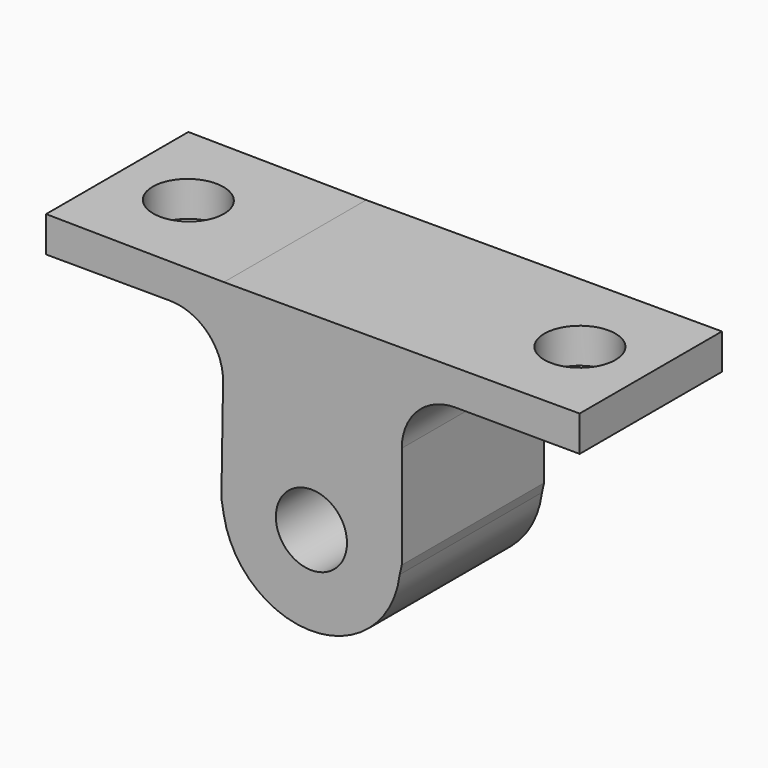
from build123d import *

# Parameters (mm, degrees)
F0_R     = 2
F1_DEPTH = 10
F4_R     = 1.9994360872
F5_DEPTH = 25


with BuildPart() as f1:
    # F0 (on Front) → F1 (new body)
    with BuildSketch(Plane.XZ):
        with BuildLine():
            Line((-13.3803687566, 34.4769072979), (-23.3796857605, 34.5937809646))
            Line((-23.3796857605, 34.5937809646), (-23.3796857605, 32.5937809646))
            Line((-23.3796857605, 32.5937809646), (-16.4188081641, 32.5709794471))
            ThreePointArc((-16.4188081641, 32.5709794471), (-14.2867381316, 31.6715376918), (-13.4290297126, 29.5223391521))
            Line((-13.4290297126, 29.5223391521), (-13.5230330612, 23.7271506339))
            Line((-13.5230330612, 23.7271506339), (-13.3845230369, 22.9439442348))
            ThreePointArc((-13.3845230369, 22.9439442348), (-8.3247951802, 18.8165358143), (-3.4972308751, 23.2132356145))
            Line((-3.4972308751, 23.2132356145), (-3.3802803059, 23.7271506339))
            Line((-3.3802803059, 23.7271506339), (-3.3802803059, 29.506322327))
            ThreePointArc((-3.3802803059, 29.506322327), (-2.4971348612, 31.6320990773), (-0.3676624447, 32.5062957918))
            Line((-0.3676624447, 32.5062957918), (6.6196312434, 32.4769072979))
            Line((6.6196312434, 32.4769072979), (6.6196312434, 34.4769072979))
            Line((6.6196312434, 34.4769072979), (-3.3803687566, 34.4769072979))
            Line((-3.3803687566, 34.4769072979), (-13.3803687566, 34.4769072979))
        make_face()
        with Locations((-8.46092525, 23.8146823311)):
            Circle(F0_R, mode=Mode.SUBTRACT)
    extrude(amount=F1_DEPTH)

    # F4 (on face) + F2 (on face) → F5 (cut)
    with BuildSketch(Plane.XY.offset(34.4769072979)):
        with Locations((2.6629853528, -5.0334255211)):
            Circle(F4_R)
    with BuildSketch(Plane(origin=(0.4010890512, 0, 34.3158273454), x_dir=(0.9999317004, 0, -0.0116873667), z_dir=(0.0116873667, 0, 0.9999317004))):
        with BuildLine():
            Line((-21.7823991401, -5), (-19.7823991401, -5))
            Line((-19.7823991401, -5), (-17.7823991401, -5))
            ThreePointArc((-17.7823991401, -5), (-19.7823991401, -3), (-21.7823991401, -5))
        make_face()
        with BuildLine():
            Line((-17.7823991401, -5), (-19.7823991401, -5))
            Line((-19.7823991401, -5), (-21.7823991401, -5))
            ThreePointArc((-21.7823991401, -5), (-19.7823991401, -7), (-17.7823991401, -5))
        make_face()
    extrude(amount=-F5_DEPTH, dir=(0, 0, 1), mode=Mode.SUBTRACT)


solid = f1.part
